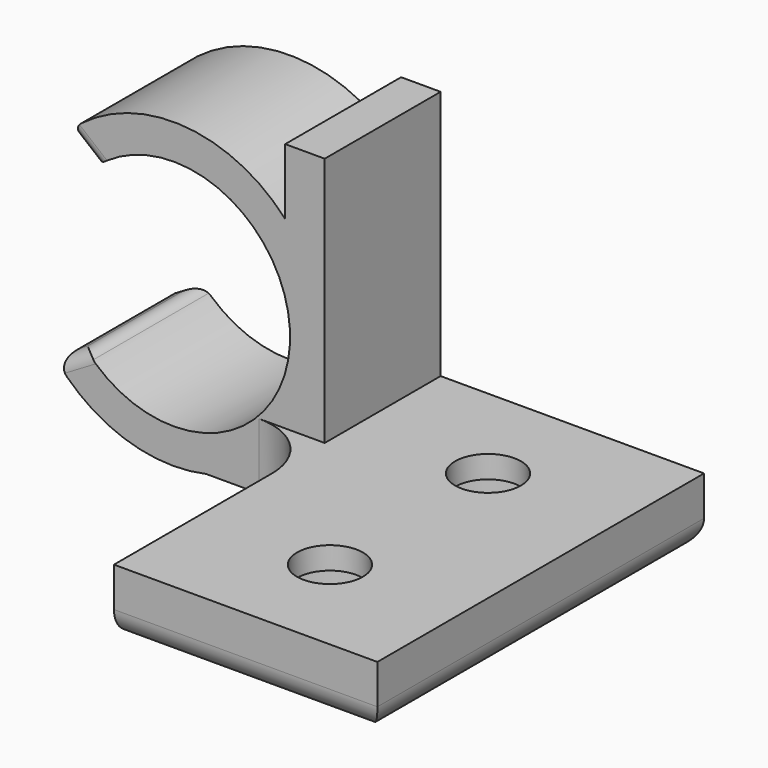
from build123d import *

# Parameters (mm, degrees)
PAD_DEPTH       = 11
FILLET_R        = 1
FILLET001_R     = 1
SKETCH001_W     = 5
SKETCH001_H     = 11
PAD001_DEPTH    = 20
SKETCH002_W     = 20
SKETCH002_H     = 5
PAD002_DEPTH    = 20
SKETCH003_R     = 5
POCKET_DEPTH    = 3.3
PAD003_DEPTH    = 5
SKETCH005_R     = 2.5
POCKET001_DEPTH = 5
FILLET002_R     = 2


with BuildPart() as part:
    # Sketch → Pad (new body)
    with BuildSketch(Plane.XZ):
        with BuildLine():
            Line((0, 0), (0, 20))
            Line((0, 20), (-3, 20))
            Line((-3, 20), (-3, 15))
            ThreePointArc((-3, 15), (-11.080706, 18.723006), (-19.399163, 15.566764))
            Line((-17.330276, 13.868571), (-19.399163, 15.566764))
            ThreePointArc((-18.108729, 1.368571), (-2.645027, 6.679789), (-17.330276, 13.868571))
            Line((-18.108729, 1.368571), (-20.421014, 0))
            ThreePointArc((-20.421014, 0), (-15.279185, -3.623719), (-9, -4))
            Line((-9, -4), (0, -4))
            Line((0, 0), (0, -4))
        make_face()
    extrude(amount=PAD_DEPTH)

    # Fillet
    fillet_edges = [part.edges().sort_by_distance(p)[0] for p in [
        (-18.108729, -5.5, 1.368571),
        (-20.421014, -5.5, 0),
        (-19.264872, 0, 0.684285),
        (-19.264872, -11, 0.684285),
    ]]
    fillet(fillet_edges, radius=FILLET_R)

    # Fillet001
    fillet001_edges = [part.edges().sort_by_distance(p)[0] for p in [
        (-17.330276, -5.5, 13.868571),
        (-19.399163, -5.5, 15.566764),
        (-18.364719, 0, 14.717668),
        (-18.364719, -11, 14.717668),
    ]]
    fillet(fillet001_edges, radius=FILLET001_R)

    # Sketch001 (on Face17 of Fillet001) → Pad001 (join)
    with BuildSketch(Plane(origin=(0, 0, 0), x_dir=(0, 0, 1), z_dir=(1, 0, 0))):
        with Locations((-1.5, 5.5)):
            Rectangle(SKETCH001_W, SKETCH001_H)
    extrude(amount=PAD001_DEPTH)

    # Sketch002 (on Face21 of Pad001) → Pad002 (join)
    with BuildSketch(Plane.XZ.offset(11)):
        with Locations((10, -1.5)):
            Rectangle(SKETCH002_W, SKETCH002_H)
    extrude(amount=PAD002_DEPTH)

    # Sketch003 (on Face26 of Pad002) → Pocket (cut)
    with BuildSketch(Plane(origin=(0, 0, -4), x_dir=(1, 0, 0), z_dir=(0, 0, -1))):
        with Locations((10, 23)):
            Circle(SKETCH003_R)
        with Locations((10, 8)):
            Circle(SKETCH003_R)
    extrude(amount=-POCKET_DEPTH, mode=Mode.SUBTRACT)

    # Sketch004 (on Face15 of Pocket) → Pad003 (join)
    with BuildSketch(Plane(origin=(0, 0, -4), x_dir=(1, 0, 0), z_dir=(0, 0, -1))):
        with BuildLine():
            ThreePointArc((-5, 11), (-1.464466, 12.464466), (0, 16))
            Line((0, 16), (0, 11))
            Line((0, 11), (-5, 11))
        make_face()
    extrude(amount=-PAD003_DEPTH)

    # Sketch005 (on Face35 of Pad003) → Pocket001 (cut)
    with BuildSketch(Plane(origin=(0, 0, -0.7), x_dir=(1, 0, 0), z_dir=(0, 0, -1))):
        with Locations((10, 23)):
            Circle(SKETCH005_R)
        with Locations((10, 8)):
            Circle(SKETCH005_R)
    extrude(amount=-POCKET001_DEPTH, mode=Mode.SUBTRACT)

    # Fillet002
    fillet002_edges = [part.edges().sort_by_distance(p)[0] for p in [
        (10, -31, -4),
        (20, -21, -4),
        (10, 0, -4),
        (20, -5.5, -4),
    ]]
    fillet(fillet002_edges, radius=FILLET002_R)


solid = part.part
